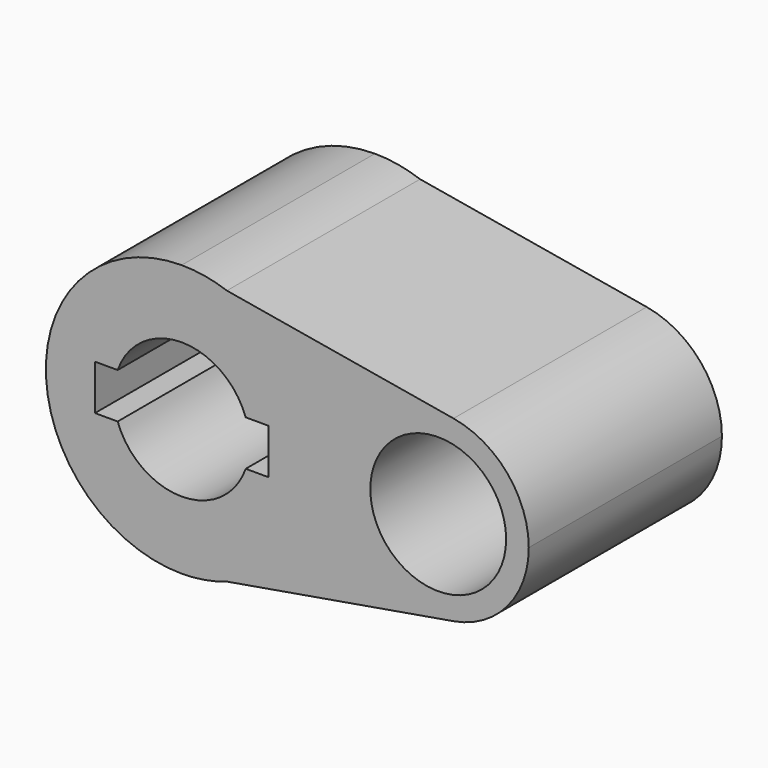
from build123d import *

# Parameters (mm, degrees)
F0_R     = 14.2875
F1_DEPTH = 50.8


with BuildPart() as f1:
    # F0 (on Front) → F1 (new body)
    with BuildSketch(Plane.XZ):
        with BuildLine():
            Line((9.512184, 26.945296), (0, 28.575))
            ThreePointArc((0, 28.575), (-28.575, 0), (0, -28.575))
            Line((0, -28.575), (9.512184, -26.945296))
            ThreePointArc((9.512184, -26.945296), (23.327466, -16.503332), (28.575, 0))
            ThreePointArc((28.575, 0), (23.327466, 16.503332), (9.512184, 26.945296))
        make_face()
        with BuildLine():
            ThreePointArc((-13.470384, 4.7625), (0, 14.2875), (13.470384, 4.7625))
            Line((13.470384, 4.7625), (18.248519, 4.7625))
            Line((18.248519, 4.7625), (18.248519, -4.7625))
            Line((18.248519, -4.7625), (13.470384, -4.7625))
            ThreePointArc((13.470384, -4.7625), (0, -14.2875), (-13.470384, -4.7625))
            Line((-13.470384, -4.7625), (-18.248519, -4.7625))
            Line((-18.248519, -4.7625), (-18.248519, 4.7625))
            Line((-18.248519, 4.7625), (-13.470384, 4.7625))
        make_face(mode=Mode.SUBTRACT)
        with BuildLine():
            ThreePointArc((9.512184, 26.945296), (4.825391, 28.164627), (0, 28.575))
            Line((0, 28.575), (9.512184, 26.945296))
        make_face()
        with BuildLine():
            Line((9.512184, -26.945296), (0, -28.575))
            ThreePointArc((0, -28.575), (4.825391, -28.164627), (9.512184, -26.945296))
        make_face()
        with BuildLine():
            Line((57.191927, 18.776418), (9.512184, 26.945296))
            ThreePointArc((9.512184, 26.945296), (23.327466, 16.503332), (28.575, 0))
            ThreePointArc((28.575, 0), (23.327466, -16.503332), (9.512184, -26.945296))
            Line((9.512184, -26.945296), (57.191927, -18.776418))
            ThreePointArc((57.191927, -18.776418), (34.925, 0), (57.191927, 18.776418))
        make_face()
        with BuildLine():
            ThreePointArc((73.025, 0), (68.538395, 12.280473), (57.191927, 18.776418))
            ThreePointArc((57.191927, 18.776418), (34.925, 0), (57.191927, -18.776418))
            ThreePointArc((57.191927, -18.776418), (68.538395, -12.280473), (73.025, 0))
        make_face()
        with Locations((53.975, 0)):
            Circle(F0_R, mode=Mode.SUBTRACT)
    extrude(amount=F1_DEPTH)


solid = f1.part
